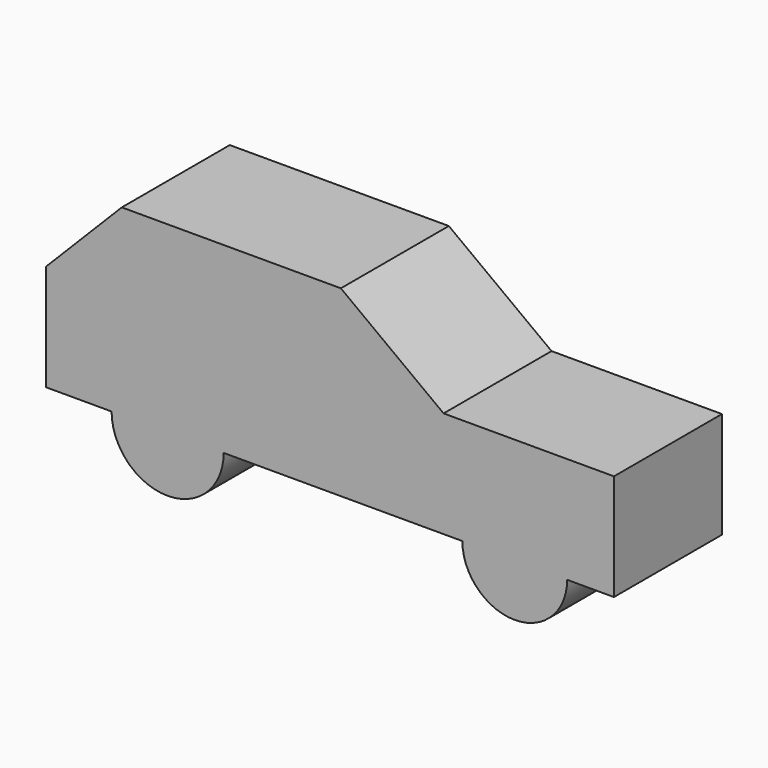
from build123d import *

# Parameters (mm, degrees)
F1_DEPTH = 30.988


with BuildPart() as f1:
    # F0 (on Front) → F1 (new body)
    with BuildSketch(Plane.XZ):
        with BuildLine():
            Line((62.716395, -38.686767), (62.716395, -17.620154))
            Line((62.716395, -17.620154), (23.592686, -17.620154))
            Line((23.592686, -17.620154), (0, 0))
            Line((0, 0), (-50.307654, 0))
            Line((-50.307654, 0), (-67.695968, -17.620154))
            Line((-67.695968, -17.620154), (-67.695968, -38.686767))
            Line((-67.695968, -38.686767), (-67.695968, -42.030673))
            Line((-67.695968, -42.030673), (-52.648388, -42.030673))
            ThreePointArc((-52.648388, -42.030673), (-39.780542, -54.898519), (-26.912697, -42.030673))
            Line((-26.912697, -42.030673), (27.900986, -42.030673))
            ThreePointArc((27.900986, -42.030673), (39.933259, -54.062946), (51.965531, -42.030673))
            Line((51.965531, -42.030673), (62.716395, -42.030673))
            Line((62.716395, -42.030673), (62.716395, -38.686767))
        make_face()
    extrude(amount=F1_DEPTH)


solid = f1.part
